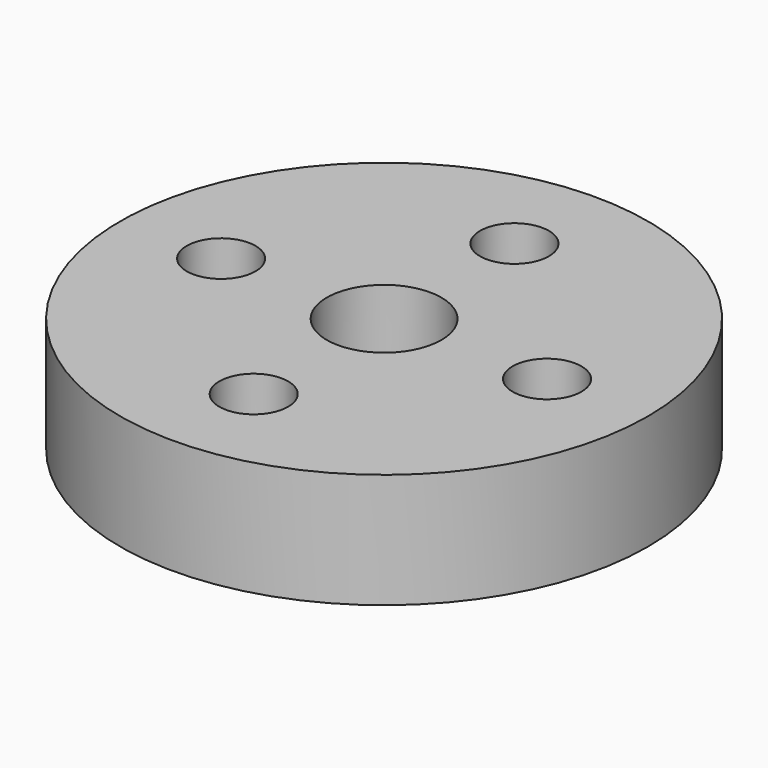
from build123d import *

# Parameters (mm, degrees)
F0_R     = 11.5
F0_R_2   = 1.5
F0_R_3   = 2.5
F1_DEPTH = 5


with BuildPart() as f1:
    # F0 (on Top) → F1 (new body)
    with BuildSketch(Plane.XY):
        with Locations((-55.442718, 4.876163)):
            Circle(F0_R)
        with Locations((-55.442718, -2.223837)):
            Circle(F0_R_2, mode=Mode.SUBTRACT)
        with Locations((-62.542718, 4.876163)):
            Circle(F0_R_2, mode=Mode.SUBTRACT)
        with Locations((-55.442718, 4.876163)):
            Circle(F0_R_3, mode=Mode.SUBTRACT)
        with Locations((-48.342718, 4.876163)):
            Circle(F0_R_2, mode=Mode.SUBTRACT)
        with Locations((-55.442718, 11.976163)):
            Circle(F0_R_2, mode=Mode.SUBTRACT)
    extrude(amount=F1_DEPTH)


solid = f1.part
